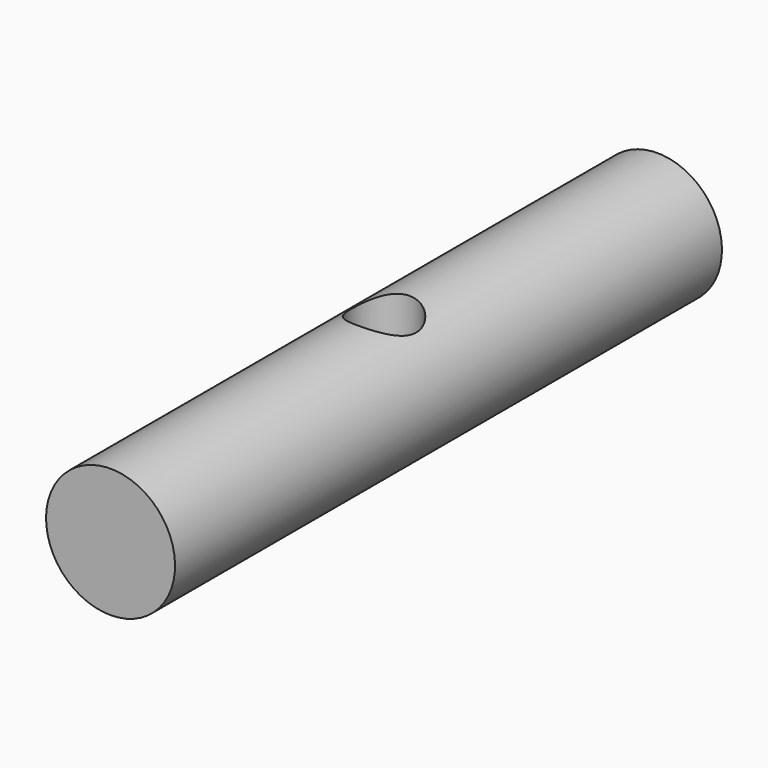
from build123d import *

# Parameters (mm, degrees)
CYLINDER004_R               = 1.35
CYLINDER004_DEPTH           = 10
CYLINDER004_PLACEMENT_ANGLE = 91
CYLINDER003_R               = 1.35
CYLINDER003_DEPTH           = 10
CYLINDER003_PITCH_ANGLE     = 90
CYLINDER002_R               = 5
CYLINDER002_DEPTH           = 20
CYLINDER002_PITCH_ANGLE     = 90
BOX_W                       = 10
BOX_H                       = 6
BOX_DEPTH                   = 22
CYLINDER001_R               = 10
CYLINDER001_DEPTH           = 106
CUT003_PITCH_ANGLE          = 90
CUT003_PLACEMENT_ANGLE      = -90


with BuildPart() as cylinder004:
    # Cylinder004 → Cylinder004 (new body)
    with BuildSketch(Plane.XY):
        Circle(CYLINDER004_R)
    extrude(amount=CYLINDER004_DEPTH)


with BuildPart() as cylinder004_1:
    # Cylinder004 placement: moved
    add(cylinder004.part.moved(Location((0, 0, 85))).rotate(Axis((0, 0, 85), (0, 1, 0)), CYLINDER004_PLACEMENT_ANGLE))


with BuildPart() as cylinder003:
    # Cylinder003 → Cylinder003 (new body)
    with BuildSketch(Plane.XY):
        Circle(CYLINDER003_R)
    extrude(amount=CYLINDER003_DEPTH)


with BuildPart() as cylinder003_1:
    # Cylinder003 pitch: moved
    add(cylinder003.part.rotate(Axis((0, 0, 0), (0, 1, 0)), CYLINDER003_PITCH_ANGLE))


with BuildPart() as cylinder003_2:
    # Cylinder003 placement: moved
    add(cylinder003_1.part.moved(Location((0, 0, 69))))


with BuildPart() as cylinder002:
    # Cylinder002 → Cylinder002 (new body)
    with BuildSketch(Plane.XY):
        Circle(CYLINDER002_R)
    extrude(amount=CYLINDER002_DEPTH)


with BuildPart() as cylinder002_1:
    # Cylinder002 pitch: moved
    add(cylinder002.part.rotate(Axis((0, 0, 0), (0, 1, 0)), CYLINDER002_PITCH_ANGLE))


with BuildPart() as cylinder002_2:
    # Cylinder002 placement: moved
    add(cylinder002_1.part.moved(Location((-10, 0, 77))))


with BuildPart() as cube:
    # Box → Box (new body)
    with BuildSketch(Plane(origin=(9.54, -3, 66), x_dir=(1, 0, 0), z_dir=(0, 0, 1))):
        with Locations((5, 3)):
            Rectangle(BOX_W, BOX_H)
    extrude(amount=BOX_DEPTH)


with BuildPart() as lever:
    # Cylinder001 → Cylinder001 (new body)
    with BuildSketch(Plane.XY.offset(24)):
        Circle(CYLINDER001_R)
    extrude(amount=CYLINDER001_DEPTH)

    # Cut: cut Cube
    add(cube.part, mode=Mode.SUBTRACT)

    # Cut001: cut Cylinder002
    add(cylinder002_2.part, mode=Mode.SUBTRACT)

    # Cut002: cut Cylinder003
    add(cylinder003_2.part, mode=Mode.SUBTRACT)

    # Cut003: cut Cylinder004
    add(cylinder004_1.part, mode=Mode.SUBTRACT)


with BuildPart() as lever_1:
    # Cut003 pitch: moved
    add(lever.part.rotate(Axis((0, 0, 0), (0, 1, 0)), CUT003_PITCH_ANGLE))


with BuildPart() as lever_2:
    # Cut003 placement: moved
    add(lever_1.part.moved(Location((106, 77, 0))).rotate(Axis((106, 77, 0), (0, 0, 1)), CUT003_PLACEMENT_ANGLE))


solid = lever_2.part
